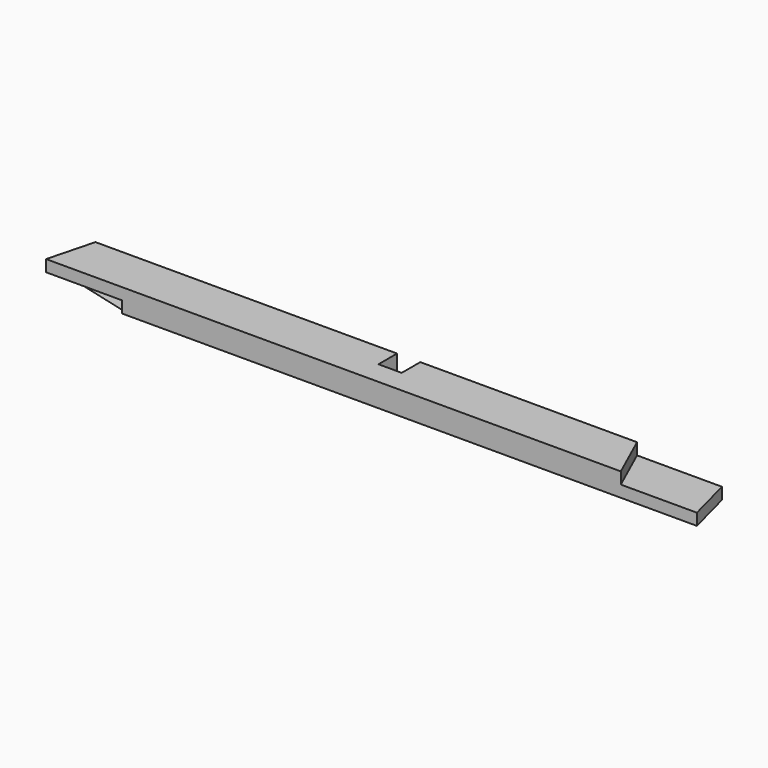
from build123d import *

# Parameters (mm, degrees)
F0_W      = 533.4
F0_H      = 19.05
F1_DEPTH  = 38.1
F3_DEPTH  = 50.8
F5_DEPTH  = 76.2
F7_DEPTH  = 60.325
F9_DEPTH  = 9.525
F11_DEPTH = 60.325
F12_W     = 19.05
F12_H     = 19.05
F13_DEPTH = 19.05
F15_DEPTH = 9.525


with BuildPart() as f1:
    # F0 (on Front) → F1 (new body)
    with BuildSketch(Plane.XZ):
        with Locations((-266.7, 9.525)):
            Rectangle(F0_W, F0_H)
    extrude(amount=F1_DEPTH)

    # F2 (on face) → F3 (cut)
    with BuildSketch(Plane.XY.offset(19.05)):
        Polygon((-533.4, 0), (-533.4, -38.1), (-523.4225147884, 0), align=None)
    extrude(amount=-F3_DEPTH, mode=Mode.SUBTRACT)

    # F4 (on face) → F5 (cut)
    with BuildSketch(Plane.XY.offset(19.05)):
        Polygon((-9.9774852116, 0), (0, -38.1), (0, 0), align=None)
    extrude(amount=-F5_DEPTH, mode=Mode.SUBTRACT)

    # F6 (on face) → F7 (cut)
    with BuildSketch(Plane(origin=(-489.8303548733, 128.274937584, 0), x_dir=(-0.2533335825, -0.9673789826, 0), z_dir=(-0.9673789826, 0.2533335825, 0))):
        Polygon((-58.7445134276, 9.525), (153.1726068869, 0), (171.9852721384, 0), (171.9852721384, 9.525), align=None)
    extrude(amount=-F7_DEPTH, mode=Mode.SUBTRACT)

    # F8 (on face) → F9 (cut)
    with BuildSketch(Plane(origin=(0, 0, 0), x_dir=(1, 0, 0), z_dir=(0, 0, -1))):
        Polygon((-471.040778759, 38.1), (-471.040778759, 0), (-453.8698045001, 0), align=None)
    extrude(amount=-F9_DEPTH, mode=Mode.SUBTRACT)

    # F10 (on face) → F11 (cut)
    with BuildSketch(Plane(origin=(-9.3371511234, -2.4451781431, 0), x_dir=(-0.2533335825, 0.9673789826, 0), z_dir=(0.9673789826, 0.2533335825, 0))):
        Polygon((-36.8571392372, 19.05), (-36.8571392372, 9.525), (45.2719508199, 9.525), (45.6329248846, 19.05), align=None)
    extrude(amount=-F11_DEPTH, mode=Mode.SUBTRACT)

    # F12 (on face) → F13 (cut)
    with BuildSketch(Plane(origin=(0, 0, 0), x_dir=(-1, 0, 0), z_dir=(0, 1, 0))):
        with Locations((266.7, 9.525)):
            Rectangle(F12_W, F12_H)
    extrude(amount=-F13_DEPTH, mode=Mode.SUBTRACT)

    # F14 (on face) → F15 (cut)
    with BuildSketch(Plane.XY.offset(19.05)):
        Polygon((-62.359221241, 0), (-79.5301954999, 0), (-62.359221241, -38.1), align=None)
    extrude(amount=-F15_DEPTH, mode=Mode.SUBTRACT)


solid = f1.part
